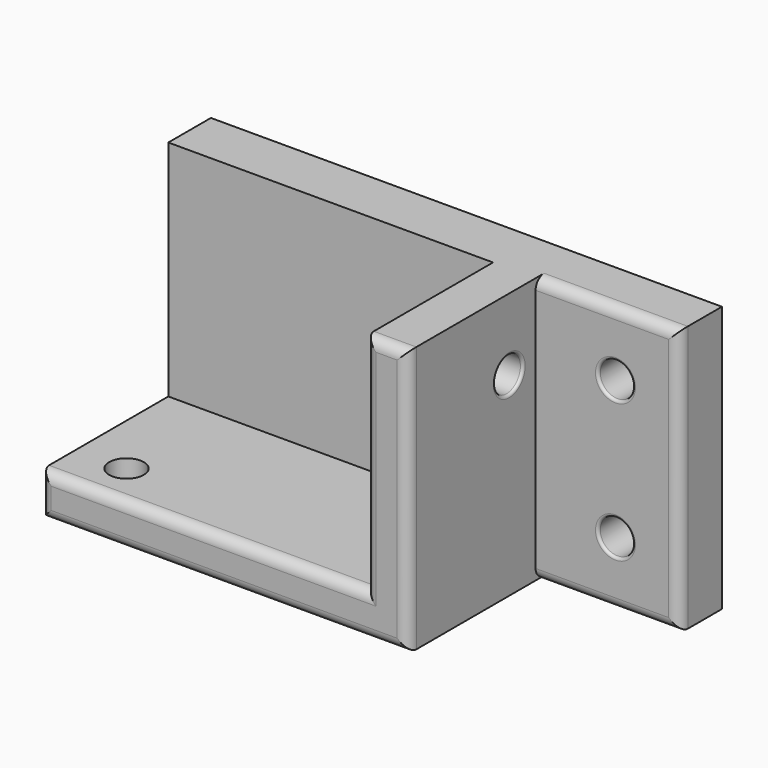
from build123d import *

# Parameters (mm, degrees)
SKETCH007_R      = 1.625
EXTRUDE007_DEPTH = 75
SKETCH006_R      = 1.625
EXTRUDE006_DEPTH = 10
EXTRUDE004_DEPTH = 20
SKETCH005_W      = 48
SKETCH005_H      = 25
SKETCH005_R      = 1.625
EXTRUDE005_DEPTH = 5
FILLET014_R      = 1
FILLET001_R      = 1
FILLET002_R      = 0.25


with BuildPart() as extrude007:
    # Sketch007 → Extrude007 (new body)
    with BuildSketch(Plane.YZ):
        with Locations((-8.1, 14.25)):
            Circle(SKETCH007_R)
    extrude(amount=EXTRUDE007_DEPTH)


with BuildPart() as cuts:
    # Sketch006 → Extrude006 (new body)
    with BuildSketch(Plane.XY):
        with Locations((29.75, -15.85)):
            Circle(SKETCH006_R)
    extrude(amount=-EXTRUDE006_DEPTH)

    # Fusion016: union Extrude007
    add(extrude007.part)


with BuildPart() as extrude004:
    # Sketch004 → Extrude004 (new body)
    with BuildSketch(Plane.XZ):
        Polygon((25, 0), (25, -4), (59.5, -4), (59.5, 21), (55.5, 21), (55.5, 0), align=None)
    extrude(amount=EXTRUDE004_DEPTH)


with BuildPart() as fillet002:
    # Sketch005 → Extrude005 (new body)
    with BuildSketch(Plane.XZ):
        with Locations((49, 8.5)):
            Rectangle(SKETCH005_W, SKETCH005_H)
        with Locations((67, 15)):
            Circle(SKETCH005_R, mode=Mode.SUBTRACT)
        with Locations((67, 2)):
            Circle(SKETCH005_R, mode=Mode.SUBTRACT)
    extrude(amount=EXTRUDE005_DEPTH)

    # Fusion015: union Extrude004
    add(extrude004.part)

    # Cut019: cut cuts
    add(cuts.part, mode=Mode.SUBTRACT)

    # Fillet014
    fillet014_edges = [fillet002.edges().sort_by_distance(p)[0] for p in [
        (57.5, -20, 21),
        (59.5, -20, 8.5),
        (55.5, -20, 10.5),
        (25, -20, -2),
        (42.25, -20, -4),
        (40.25, -20, 0),
    ]]
    fillet(fillet014_edges, radius=FILLET014_R)

    # Fillet001
    fillet001_edges = [fillet002.edges().sort_by_distance(p)[0] for p in [
        (66.25, -5, 21),
        (66.25, -5, -4),
        (73, -5, 8.5),
    ]]
    fillet(fillet001_edges, radius=FILLET001_R)

    # Fillet002
    fillet002_edges = [fillet002.edges().sort_by_distance(p)[0] for p in [
        (59.5, -9.725, 14.25),
        (28.125, -15.85, -4),
        (65.375, -5, 2),
        (65.375, -5, 15),
    ]]
    fillet(fillet002_edges, radius=FILLET002_R)


solid = fillet002.part
